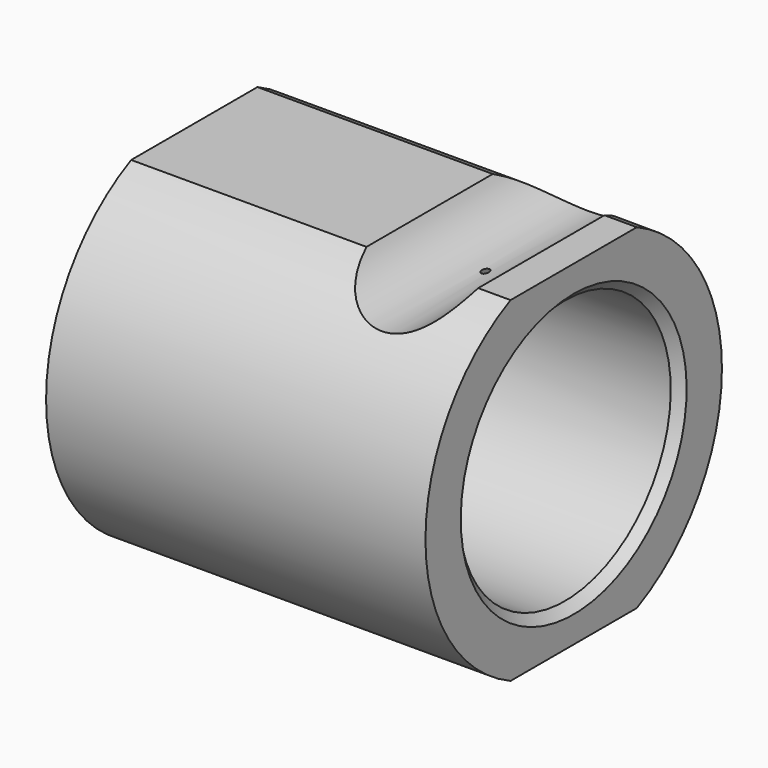
from build123d import *

# Parameters (mm, degrees)
F4_SIZE       = 1
F5_W          = 43
F5_H          = 3
F6_DEPTH      = 21.001
F6_DEPTH_BACK = 21.001
F7_R          = 7
F8_DEPTH      = 71.001


with BuildPart() as f1:
    # F0 (on Front) → F1 (revolve)
    with BuildSketch(Plane.XZ):
        Polygon((43, 15), (43, 21), (0, 21), (0, 11), (2.5, 11), (2.5, 12.5), (17.5, 12.5), (17.5, 15), align=None)
    revolve(axis=Axis((10.041691, 0, 0), (1, 0, 0)))

    # F4
    f4_edges = [f1.edges().sort_by_distance(p)[0] for p in [
        (43, 0, -15),
        (17.5, 0, -12.5),
    ]]
    chamfer(f4_edges, length=F4_SIZE)

    # F5 (on Front) → F6 (cut, two sides)
    with BuildSketch(Plane.XZ) as f6_sk:
        with Locations((21.5, 20.5)):
            Rectangle(F5_W, F5_H)
        with Locations((21.5, -20.5)):
            Rectangle(F5_W, F5_H)
    extrude(amount=F6_DEPTH, mode=Mode.SUBTRACT)
    extrude(f6_sk.sketch, amount=-F6_DEPTH_BACK, mode=Mode.SUBTRACT)

    # F7 (on offset) → F8 (cut, through all)
    with BuildSketch(Plane.XZ.offset(50)):
        with Locations((33, 21.99)):
            Circle(F7_R)
    extrude(amount=-F8_DEPTH, mode=Mode.SUBTRACT)


solid = f1.part
